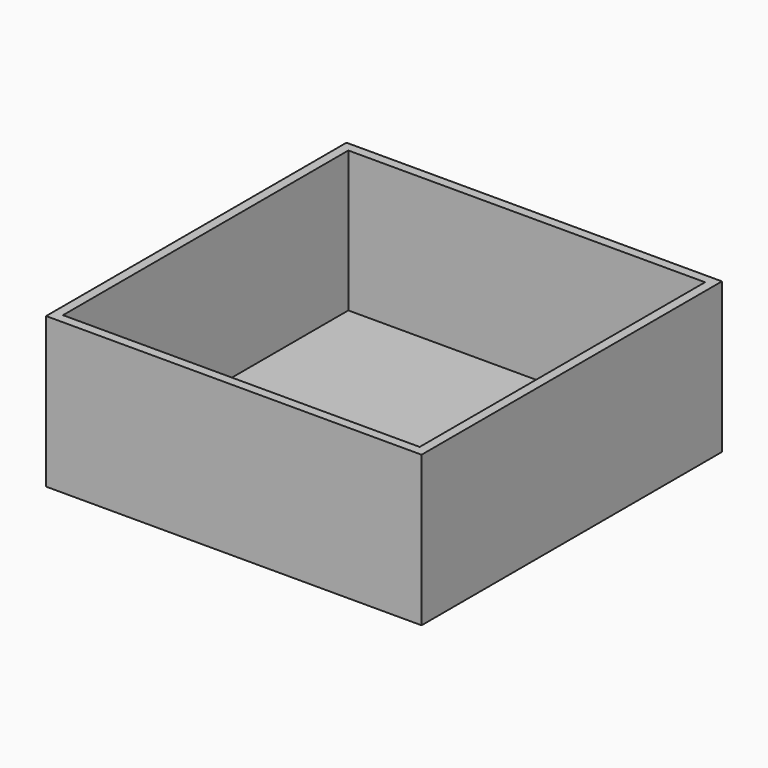
from build123d import *

# Parameters (mm, degrees)
F0_W     = 100
F0_H     = 100
F1_DEPTH = 25
F2_T     = -2.5
F3_DEPTH = 40
F4_T     = -2.5


with BuildPart() as f1:
    # F0 (on Top) → F1 (new body)
    with BuildSketch(Plane.XY):
        Rectangle(F0_W, F0_H)
    extrude(amount=F1_DEPTH)

    # F2
    f2_openings = [f1.faces().sort_by_distance(p)[0] for p in [
        (0, 0, 25),
    ]]
    offset(amount=F2_T, openings=f2_openings)

    # F0 (on Top) → F3 (join)
    with BuildSketch(Plane.XY):
        Rectangle(F0_W, F0_H)
    extrude(amount=F3_DEPTH)

    # F4
    f4_openings = [f1.faces().sort_by_distance(p)[0] for p in [
        (0, 0, 40),
    ]]
    offset(amount=F4_T, openings=f4_openings)


solid = f1.part
